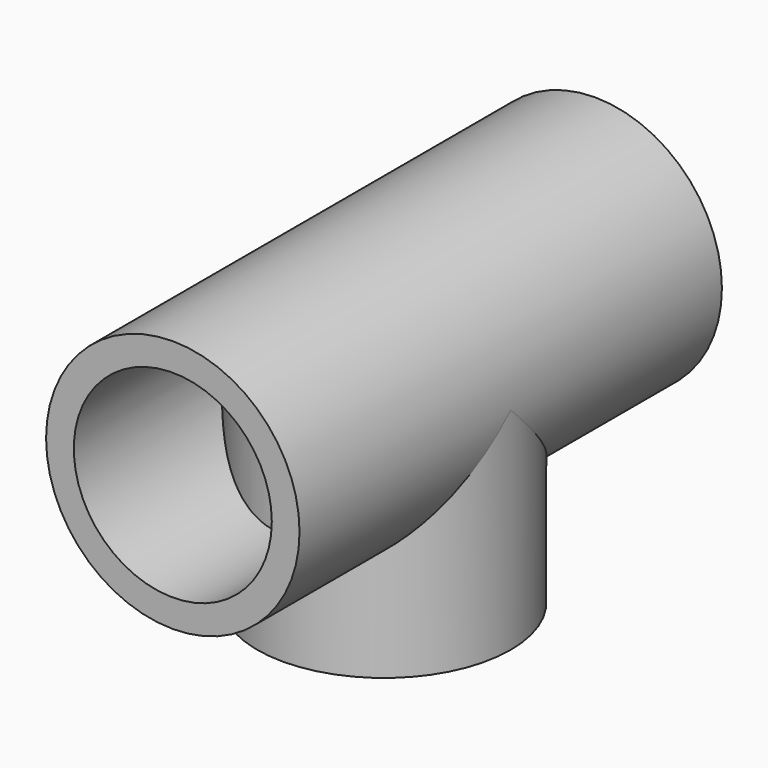
from build123d import *

# Parameters (mm, degrees)
F0_R     = 15.24
F0_R_2   = 11.90625
F1_DEPTH = 31.75
F2_R     = 15.24
F2_R_2   = 11.90625
F3_DEPTH = 25.4


with BuildPart() as f1:
    # F0 (on Front) → F1 (new body, symmetric)
    with BuildSketch(Plane.XZ):
        Circle(F0_R)
        Circle(F0_R_2, mode=Mode.SUBTRACT)
    extrude(amount=F1_DEPTH, both=True)

    # F2 (on Top) → F3 (join)
    with BuildSketch(Plane.XY):
        Circle(F2_R)
        Circle(F2_R_2, mode=Mode.SUBTRACT)
    extrude(amount=-F3_DEPTH)


solid = f1.part
